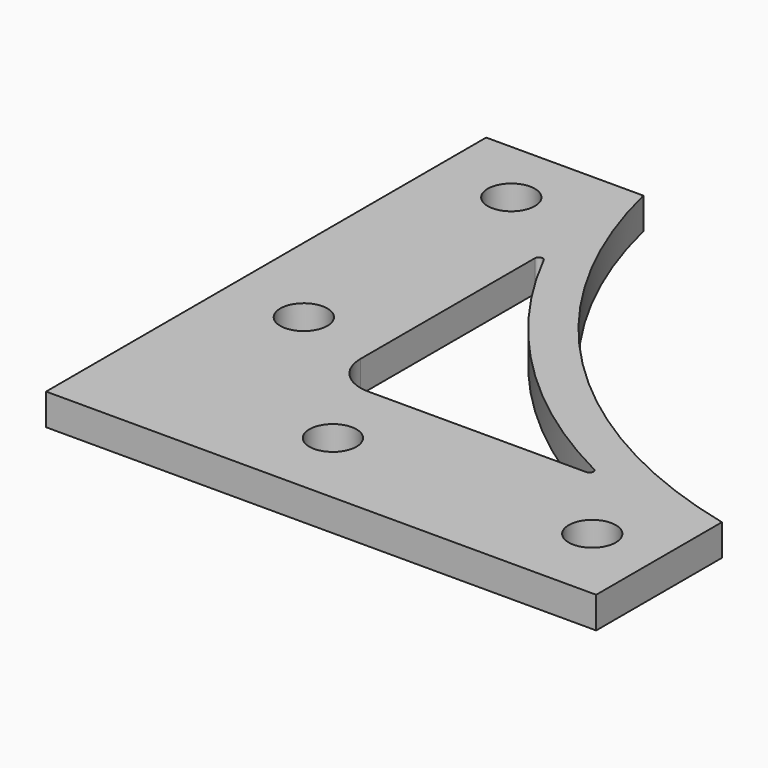
from build123d import *

# Parameters (mm, degrees)
PAD_DEPTH       = 4
POCKET_DEPTH    = 4.001
SKETCH002_R     = 3
POCKET001_DEPTH = 4.001
FILLET_R        = 5
FILLET001_R     = 0.5


with BuildPart() as part:
    # Sketch → Pad (new body)
    with BuildSketch(Plane.XY):
        with BuildLine():
            Line((0, 0), (70, 0))
            Line((70, 0), (70, 20))
            ThreePointArc((20, 70), (37.928932, 37.928932), (70, 20))
            Line((20, 70), (0, 70))
            Line((0, 70), (0, 0))
        make_face()
    extrude(amount=PAD_DEPTH)

    # Sketch001 → Pocket (cut, through all)
    with BuildSketch(Plane.XY.offset(4)):
        with BuildLine():
            ThreePointArc((20, 54.914649), (34.393398, 34.393398), (54.914649, 20))
            Line((20, 20), (54.914649, 20))
            Line((20, 54.914649), (20, 20))
        make_face()
    extrude(amount=-POCKET_DEPTH, mode=Mode.SUBTRACT)

    # Sketch002 → Pocket001 (cut, through all)
    with BuildSketch(Plane.XY.offset(4)):
        with Locations((10, 28.5)):
            Circle(SKETCH002_R)
        with Locations((10, 61.5)):
            Circle(SKETCH002_R)
        with Locations((28.5, 10)):
            Circle(SKETCH002_R)
        with Locations((61.5, 10)):
            Circle(SKETCH002_R)
    extrude(amount=-POCKET001_DEPTH, mode=Mode.SUBTRACT)

    # Fillet
    fillet_edges = [part.edges().sort_by_distance(p)[0] for p in [
        (20, 20, 2),
    ]]
    fillet(fillet_edges, radius=FILLET_R)

    # Fillet001
    fillet001_edges = [part.edges().sort_by_distance(p)[0] for p in [
        (20, 54.914649, 2),
        (54.914649, 20, 2),
    ]]
    fillet(fillet001_edges, radius=FILLET001_R)


solid = part.part
